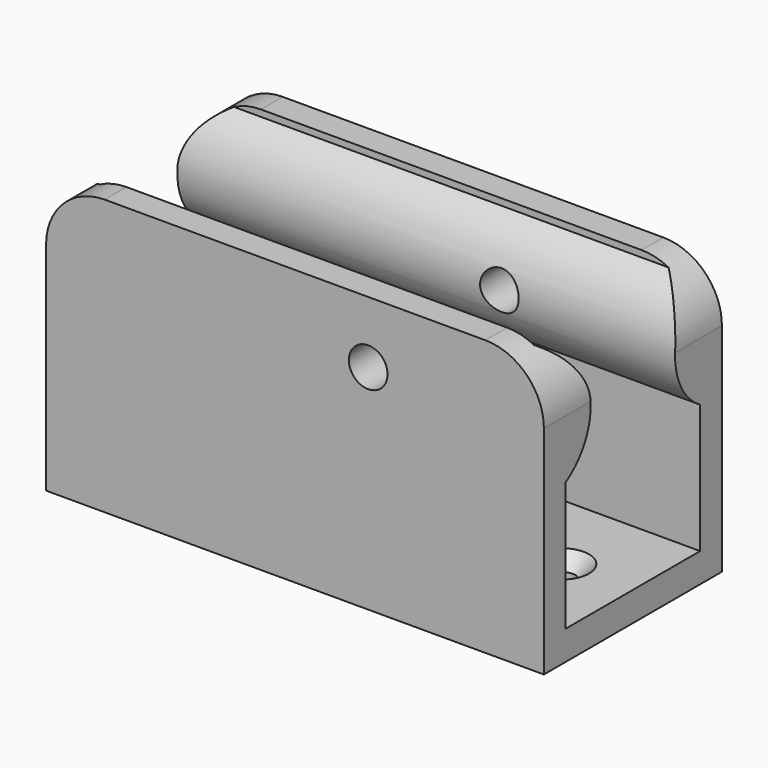
from build123d import *

# Parameters (mm, degrees)
F0_W           = 85
F0_H           = 47
F1_DEPTH       = 19
F3_DEPTH       = 85.001
F4_R           = 3.3
F5_DEPTH       = 38.001
F7_D           = 4.3
F7_CSINK_D     = 9
F7_CSINK_ANGLE = 90
F8_R           = 10


with BuildPart() as f1:
    # F0 (on Front) → F1 (new body, symmetric)
    with BuildSketch(Plane.XZ):
        Rectangle(F0_W, F0_H)
    extrude(amount=F1_DEPTH, both=True)

    # F2 (on face) → F3 (cut, through all)
    with BuildSketch(Plane(origin=(-42.5, 0, 0), x_dir=(0, -1, 0), z_dir=(-1, 0, 0))):
        with BuildLine():
            Line((-14.35, 3.5), (-14.35, -18.5))
            Line((-14.35, -18.5), (14.35, -18.5))
            Line((14.35, -18.5), (14.35, 3.5))
            ThreePointArc((14.35, 3.5), (9, 12.93808773), (14.35, 22.3761754601))
            Line((14.35, 22.3761754601), (14.35, 23.5))
            Line((14.35, 23.5), (-14.35, 23.5))
            Line((-14.35, 23.5), (-14.35, 22.3761754601))
            ThreePointArc((-14.35, 22.3761754601), (-9, 12.93808773), (-14.35, 3.5))
        make_face()
    extrude(amount=-F3_DEPTH, mode=Mode.SUBTRACT)

    # F4 (on face) → F5 (cut, through all)
    with BuildSketch(Plane.XZ.offset(19)):
        with Locations((12.5, 12.93808773)):
            Circle(F4_R)
    extrude(amount=-F5_DEPTH, mode=Mode.SUBTRACT)

    # F7 (through all)
    with Locations(Plane.XY.offset(-18.5)):
        with Locations((-30.5, 0), (30.5, 0)):
            CounterSinkHole(F7_D / 2, F7_CSINK_D / 2, counter_sink_angle=F7_CSINK_ANGLE)

    # F8
    f8_edges = [f1.edges().sort_by_distance(p)[0] for p in [
        (-42.5, 16.675, 23.5),
        (-42.5, -16.675, 23.5),
        (42.5, 16.675, 23.5),
        (42.5, -16.675, 23.5),
    ]]
    fillet(f8_edges, radius=F8_R)


solid = f1.part
